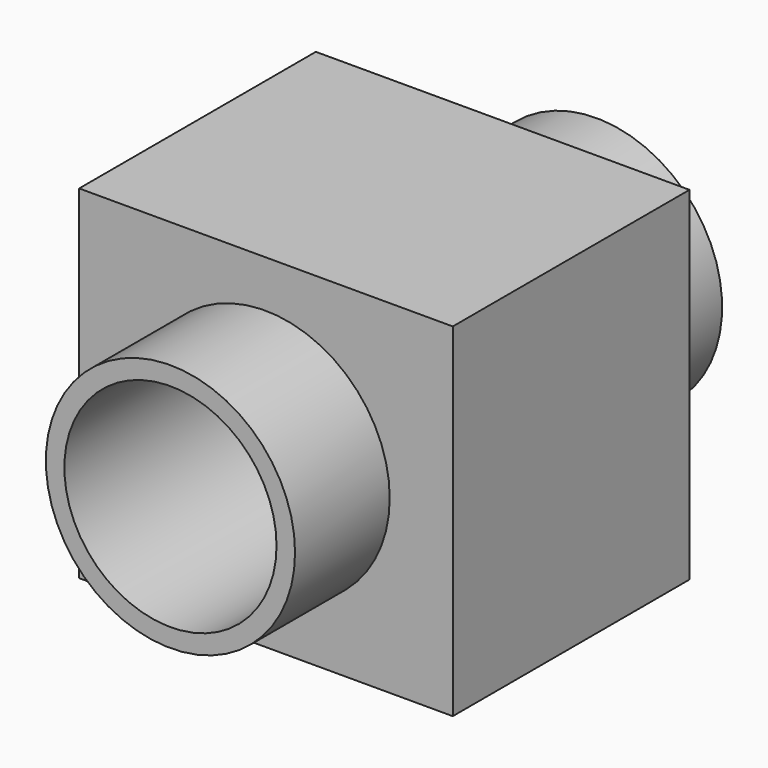
from build123d import *

# Parameters (mm, degrees)
F0_W     = 126.286372
F0_H     = 115.97728
F0_R     = 35.861257
F1_DEPTH = 100
F2_R     = 42.116392
F2_R_2   = 35.861257
F3_DEPTH = 40
F4_R     = 42.482799
F4_R_2   = 35.861257
F5_DEPTH = 40


with BuildPart() as f1:
    # F0 (on Front) → F1 (new body)
    with BuildSketch(Plane.XZ):
        with Locations((0.286363, 0)):
            Rectangle(F0_W, F0_H)
        Circle(F0_R, mode=Mode.SUBTRACT)
    extrude(amount=F1_DEPTH)

    # F2 (on face) → F3 (join)
    with BuildSketch(Plane.XZ.offset(100)):
        Circle(F2_R)
        Circle(F2_R_2, mode=Mode.SUBTRACT)
    extrude(amount=F3_DEPTH)

    # F4 (on face) → F5 (join)
    with BuildSketch(Plane(origin=(0, 0, 0), x_dir=(-1, 0, 0), z_dir=(0, 1, 0))):
        Circle(F4_R)
        Circle(F4_R_2, mode=Mode.SUBTRACT)
    extrude(amount=F5_DEPTH)


solid = f1.part
